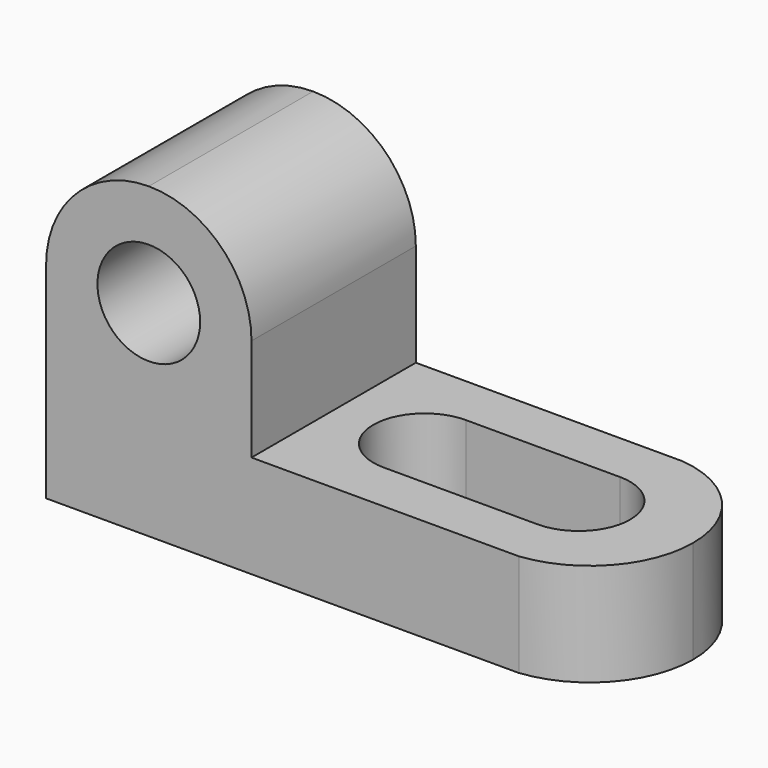
from build123d import *

# Parameters (mm, degrees)
F0_W     = 69.85
F0_H     = 38.1
F1_DEPTH = 25.4
F2_W     = 44.45
F2_H     = 25.4
F3_DEPTH = 25.4
F4_R     = 6.35
F5_DEPTH = 25.4
F7_DEPTH = 25.4


with BuildPart() as f1:
    # F0 (on Front) → F1 (new body)
    with BuildSketch(Plane.XZ):
        with Locations((34.925, 19.05)):
            Rectangle(F0_W, F0_H)
    extrude(amount=F1_DEPTH)

    # F2 (on face) → F3 (cut)
    with BuildSketch(Plane.XZ.offset(25.4)):
        with Locations((47.625, 25.4)):
            Rectangle(F2_W, F2_H)
    extrude(amount=-F3_DEPTH, mode=Mode.SUBTRACT)

    # F4 (on face) → F5 (cut)
    with BuildSketch(Plane.XZ.offset(25.4)):
        with Locations((12.7, 25.4)):
            Circle(F4_R)
        with BuildLine():
            ThreePointArc((12.7, 38.1), (21.6802561211, 34.3802561211), (25.4, 25.4))
            Line((25.4, 25.4), (25.4, 38.1))
            Line((25.4, 38.1), (12.7, 38.1))
        make_face()
        with BuildLine():
            ThreePointArc((0, 25.4), (3.7197438789, 34.3802561211), (12.7, 38.1))
            Line((12.7, 38.1), (0, 38.1))
            Line((0, 38.1), (0, 25.4))
        make_face()
    extrude(amount=-F5_DEPTH, mode=Mode.SUBTRACT)

    # F6 (on face) → F7 (cut)
    with BuildSketch(Plane.XY.offset(12.7)):
        with BuildLine():
            ThreePointArc((62.0542312606, -12.7), (60.1943593211, -8.2098719395), (55.7042312606, -6.35))
            ThreePointArc((55.7042312606, -6.35), (49.3542312606, -12.7), (55.7042312606, -19.05))
            ThreePointArc((55.7042312606, -19.05), (60.1943593211, -17.1901280605), (62.0542312606, -12.7))
        make_face()
        with BuildLine():
            ThreePointArc((36.6542312606, -6.35), (41.1443593211, -8.2098719395), (43.0042312606, -12.7))
            ThreePointArc((43.0042312606, -12.7), (41.1443593211, -17.1901280605), (36.6542312606, -19.05))
            Line((36.6542312606, -19.05), (55.7042312606, -19.05))
            ThreePointArc((55.7042312606, -19.05), (49.3542312606, -12.7), (55.7042312606, -6.35))
            Line((55.7042312606, -6.35), (36.6542312606, -6.35))
        make_face()
        with BuildLine():
            ThreePointArc((36.6542312606, -19.05), (41.1443593211, -17.1901280605), (43.0042312606, -12.7))
            ThreePointArc((43.0042312606, -12.7), (41.1443593211, -8.2098719395), (36.6542312606, -6.35))
            ThreePointArc((36.6542312606, -6.35), (30.3042312606, -12.7), (36.6542312606, -19.05))
        make_face()
        with BuildLine():
            ThreePointArc((58.4480038999, 0), (66.5812842441, -4.1663091943), (69.85, -12.7))
            Line((69.85, -12.7), (69.85, 0))
            Line((69.85, 0), (58.4480038999, 0))
        make_face()
        with BuildLine():
            ThreePointArc((69.85, -12.7), (66.5812842441, -21.2336908057), (58.4480038999, -25.4))
            Line((58.4480038999, -25.4), (69.85, -25.4))
            Line((69.85, -25.4), (69.85, -12.7))
        make_face()
    extrude(amount=-F7_DEPTH, mode=Mode.SUBTRACT)


solid = f1.part
